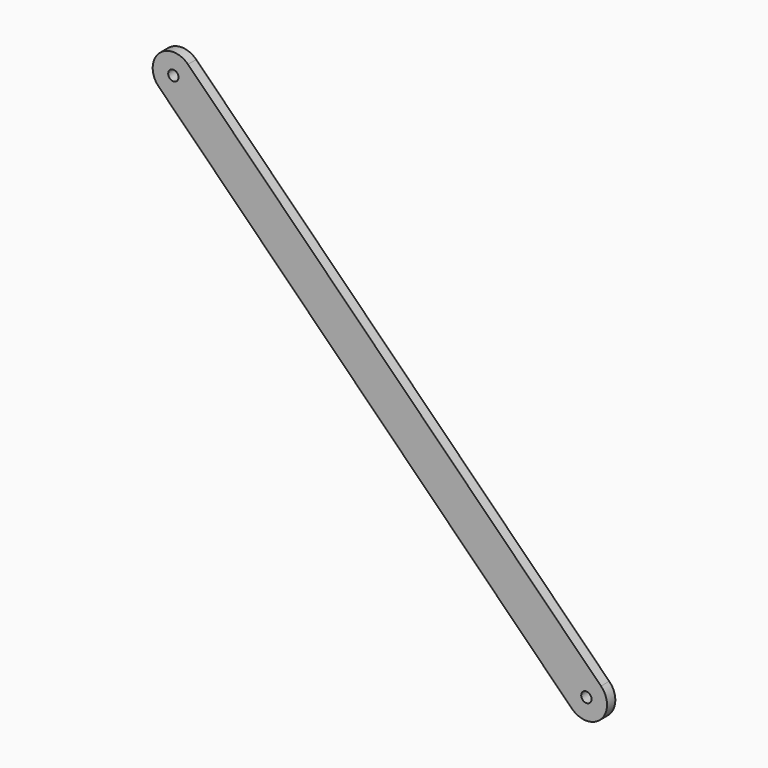
from build123d import *

# Parameters (mm, degrees)
F1_DEPTH = 5
F2_R     = 2.5
F3_DEPTH = 25
F4_R     = 2.5
F5_DEPTH = 25


with BuildPart() as f1:
    # F0 (on Front) → F1 (new body)
    with BuildSketch(Plane.XZ):
        with BuildLine():
            ThreePointArc((7.071068, 7.071068), (-7.071068, 7.071068), (-7.071068, -7.071068))
            Line((-7.071068, -7.071068), (7.071068, 7.071068))
        make_face()
        Polygon((7.071068, 7.071068), (-7.071068, -7.071068), (192.928932, -207.071068), (207.071068, -192.928932), align=None)
        with BuildLine():
            Line((207.071068, -192.928932), (192.928932, -207.071068))
            ThreePointArc((192.928932, -207.071068), (207.071068, -207.071068), (207.071068, -192.928932))
        make_face()
    extrude(amount=F1_DEPTH)

    # F2 (on face) → F3 (cut)
    with BuildSketch(Plane.XZ.offset(5)):
        Circle(F2_R)
    extrude(amount=-F3_DEPTH, mode=Mode.SUBTRACT)

    # F4 (on face) → F5 (cut)
    with BuildSketch(Plane.XZ.offset(5)):
        with Locations((200, -200)):
            Circle(F4_R)
    extrude(amount=-F5_DEPTH, mode=Mode.SUBTRACT)


solid = f1.part
